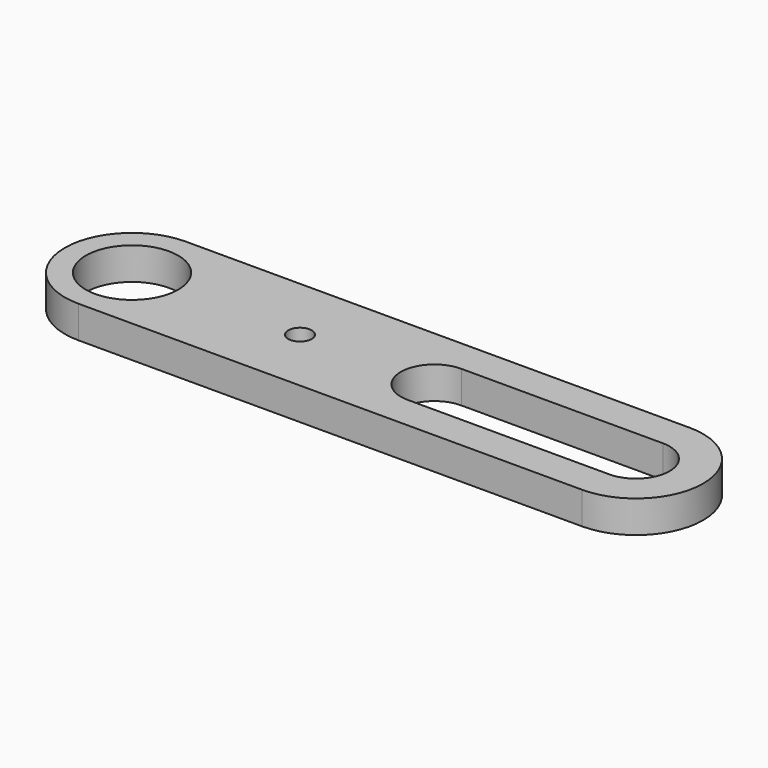
from build123d import *

# Parameters (mm, degrees)
F0_R     = 3.4925
F0_R_2   = 0.889
F1_DEPTH = 2.4384


with BuildPart() as f1:
    # F0 (on Top) → F1 (new body)
    with BuildSketch(Plane.XY):
        with BuildLine():
            Line((-38.1, -5.08), (0, -5.08))
            ThreePointArc((0, -5.08), (5.08, 0), (0, 5.08))
            Line((0, 5.08), (-38.1, 5.08))
            ThreePointArc((-38.1, 5.08), (-43.18, 0), (-38.1, -5.08))
        make_face()
        with Locations((-38.1, 0)):
            Circle(F0_R, mode=Mode.SUBTRACT)
        with Locations((-25.4, 0)):
            Circle(F0_R_2, mode=Mode.SUBTRACT)
        with BuildLine():
            ThreePointArc((0, 2.54), (2.54, 0), (0, -2.54))
            Line((0, -2.54), (-15.24, -2.54))
            ThreePointArc((-15.24, -2.54), (-17.78, 0), (-15.24, 2.54))
            Line((-15.24, 2.54), (0, 2.54))
        make_face(mode=Mode.SUBTRACT)
    extrude(amount=F1_DEPTH)


solid = f1.part
